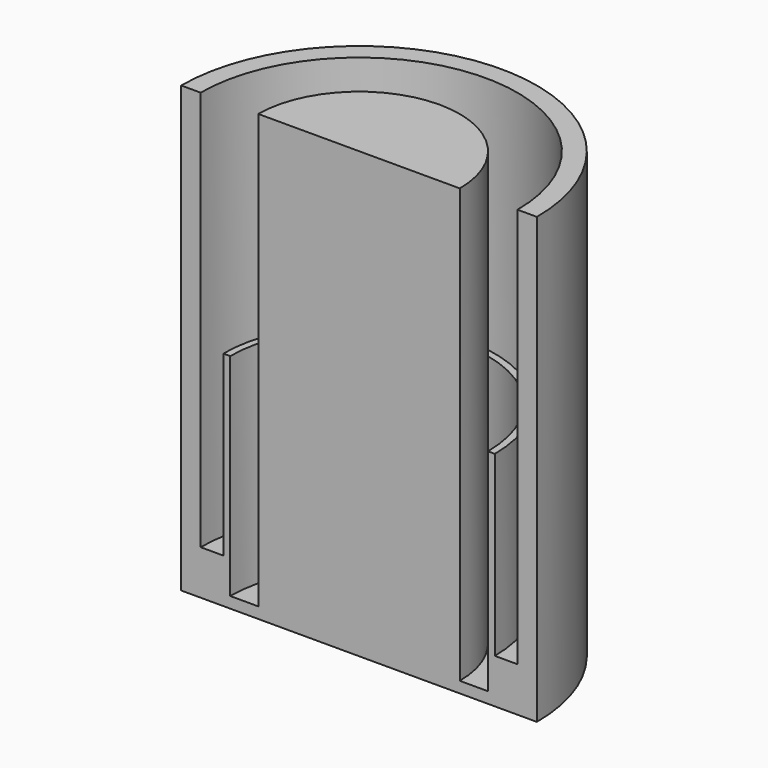
from build123d import *

# Parameters (mm, degrees)
F1_ANGLE_BACK = 180
F1_ANGLE      = 180


with BuildPart() as f1:
    # F0 (on Front) → F1 (revolve)
    with BuildSketch(Plane.XZ, mode=Mode.PRIVATE) as f1_sk:
        Polygon((0, 1000), (0, 0), (400, 0), (400, 1000), (356.3, 1000), (356.3, 100), (305.3, 100), (305.3, 500), (289.8, 500), (289.8, 25), (226.55, 25), (226.55, 1000), align=None)
    revolve(f1_sk.sketch.rotate(Axis((0, 0, 500), (0, 0, -1)), -F1_ANGLE_BACK), axis=Axis((0, 0, 500), (0, 0, -1)), revolution_arc=F1_ANGLE)


solid = f1.part
